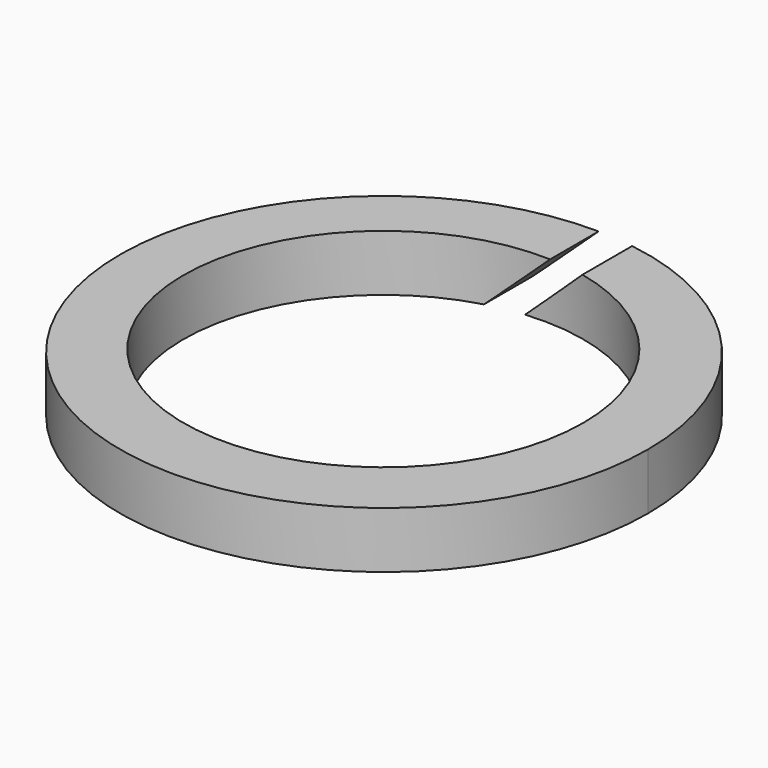
from build123d import *

# Parameters (mm, degrees)
F0_R     = 14.040569
F0_R_2   = 10.638486
F1_DEPTH = 3
F3_DEPTH = 25


with BuildPart() as f1:
    # F0 (on Top) → F1 (new body)
    with BuildSketch(Plane.XY):
        Circle(F0_R)
        with Locations((-0.186612, 0.186611)):
            Circle(F0_R_2, mode=Mode.SUBTRACT)
    extrude(amount=F1_DEPTH)

    # F2 (on Front) → F3 (cut)
    with BuildSketch(Plane.XZ):
        Polygon((1.621062, 4.343173), (-3.033989, 0), (-1.122093, 0), (3.532958, 4.343173), align=None)
    extrude(amount=-F3_DEPTH, mode=Mode.SUBTRACT)


solid = f1.part
